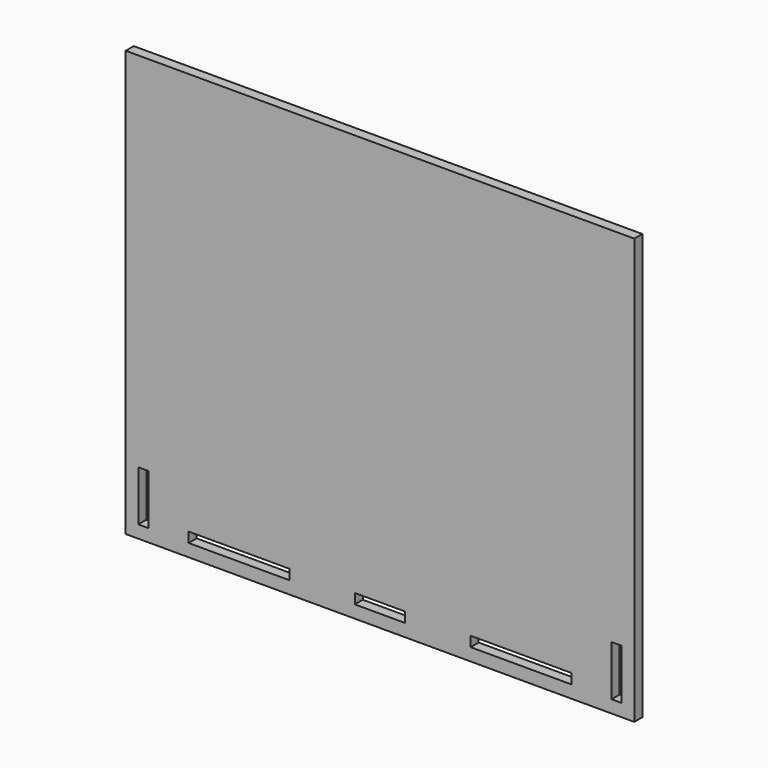
from build123d import *

# Parameters (mm, degrees)
F0_W     = 404
F0_H     = 338
F0_W_2   = 8
F0_H_2   = 40
F0_W_3   = 80
F0_H_3   = 8
F0_W_4   = 40
F1_DEPTH = 8


with BuildPart() as f1:
    # F0 (on Front) → F1 (new body)
    with BuildSketch(Plane.XZ):
        with Locations((202, 169)):
            Rectangle(F0_W, F0_H)
        with Locations((14, 30)):
            Rectangle(F0_W_2, F0_H_2, mode=Mode.SUBTRACT)
        with Locations((90, 14)):
            Rectangle(F0_W_3, F0_H_3, mode=Mode.SUBTRACT)
        with Locations((202, 14)):
            Rectangle(F0_W_4, F0_H_3, mode=Mode.SUBTRACT)
        with Locations((314, 14)):
            Rectangle(F0_W_3, F0_H_3, mode=Mode.SUBTRACT)
        with Locations((390, 30)):
            Rectangle(F0_W_2, F0_H_2, mode=Mode.SUBTRACT)
    extrude(amount=-F1_DEPTH)


solid = f1.part
